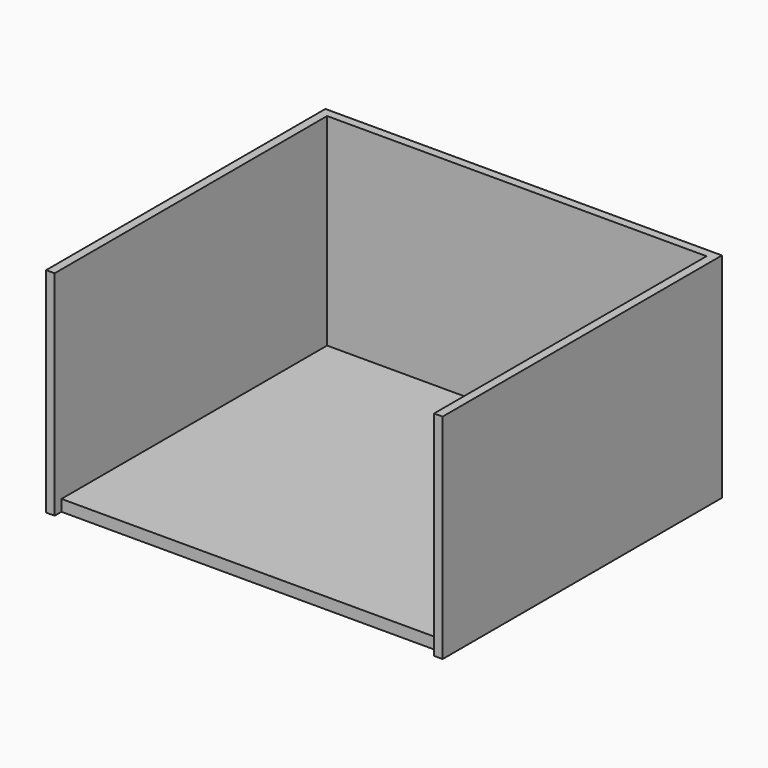
from build123d import *

# Parameters (mm, degrees)
F0_W     = 800
F0_H     = 700
F1_DEPTH = 24
F2_W     = 18
F2_H     = 736
F3_DEPTH = 450
F4_W     = 800
F4_H     = 18
F6_DEPTH = 450


with BuildPart() as f1:
    # F0 (on Top) → F1 (new body)
    with BuildSketch(Plane.XY):
        Rectangle(F0_W, F0_H)
    extrude(amount=F1_DEPTH)

    # F2 (on Top) → F3 (join)
    with BuildSketch(Plane.XY):
        with Locations((409, 0)):
            Rectangle(F2_W, F2_H)
    extrude(amount=F3_DEPTH)

    # F5: F1 across plane


with BuildPart() as f1_1:
    add(f1.part)
    add(f1.part.mirror(Plane.YZ))

    # F4 (on Top) → F6 (join)
    with BuildSketch(Plane.XY):
        with Locations((0, 359)):
            Rectangle(F4_W, F4_H)
    extrude(amount=F6_DEPTH)


solid = f1_1.part
